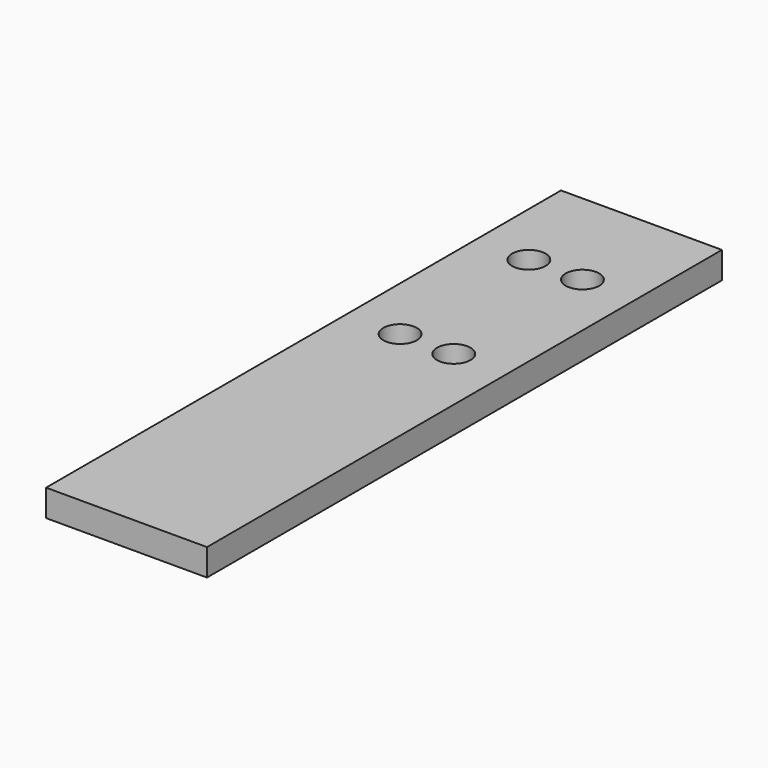
from build123d import *

# Parameters (mm, degrees)
F0_W     = 19.05
F0_H     = 76.2
F1_DEPTH = 1.5875
F2_R     = 1.984375
F3_DEPTH = 3.175


with BuildPart() as f1:
    # F0 (on Top) → F1 (new body, symmetric)
    with BuildSketch(Plane.XY):
        Rectangle(F0_W, F0_H)
    extrude(amount=F1_DEPTH, both=True)

    # F2 (on face) → F3 (cut, through all)
    with BuildSketch(Plane.XY.offset(1.5875)):
        with Locations((3.175, 25.4)):
            Circle(F2_R)
        with Locations((-3.175, 25.4)):
            Circle(F2_R)
        with Locations((-3.175, 6.35)):
            Circle(F2_R)
        with Locations((3.175, 6.35)):
            Circle(F2_R)
    extrude(amount=-F3_DEPTH, mode=Mode.SUBTRACT)


solid = f1.part
